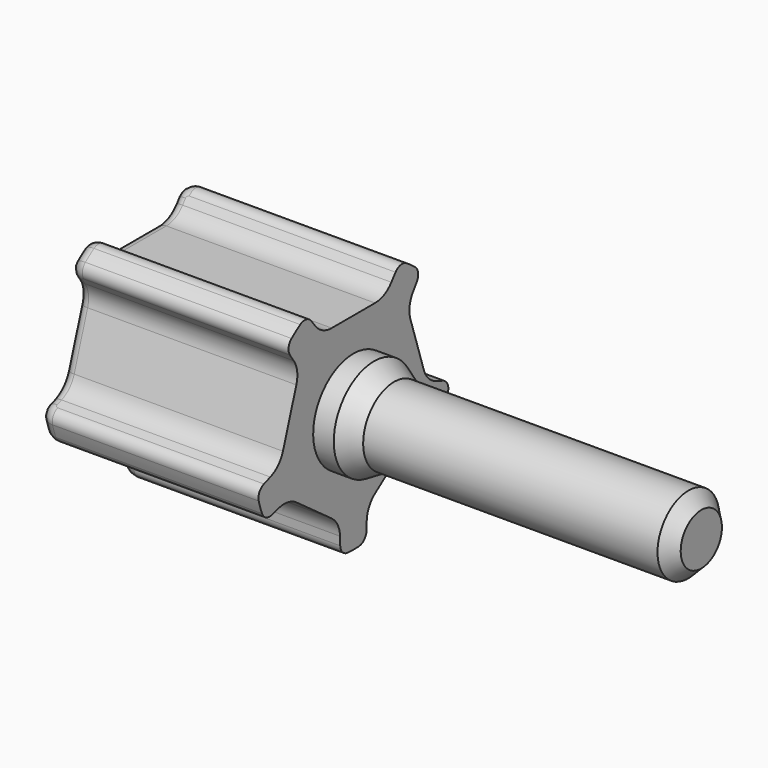
from build123d import *

# Parameters (mm, degrees)
POCKET_DEPTH       = 120.112591
POLARPATTERN_COUNT = 5
FILLET_R           = 0.8
SKETCH002_R        = 4.5
POCKET001_DEPTH    = 14.001
SKETCH003_R        = 4
PAD_DEPTH          = 6
CHAMFER_SIZE       = 1


with BuildPart() as part:
    # Sketch → Revolution (revolve)
    with BuildSketch(Plane.XZ):
        with BuildLine():
            Line((27, 0), (27, 3))
            Line((27, 3), (3.158846, 3))
            Line((3.158846, 3), (1.6, 3.9))
            Line((1.6, 3.9), (0, 3.9))
            Line((0, 3.9), (0, 9.5))
            Line((0, 9.5), (-16, 9.5))
            ThreePointArc((-16, 9.5), (-16.707107, 9.207107), (-17, 8.5))
            Line((-17, 8.5), (-17, 0))
            Line((-17, 0), (27, 0))
        make_face()
    revolve(axis=Axis((0, 0, 0), (1, 0, 0)))

    # Sketch001 → Pocket (cut, through all)
    with BuildSketch(Plane.YZ):
        with BuildLine():
            ThreePointArc((-3.685317, 7.275073), (-2.984702, 6.704192), (-2.104319, 6.5))
            Line((-2.104319, 6.5), (2.104319, 6.5))
            ThreePointArc((2.104319, 6.5), (2.984702, 6.704192), (3.685317, 7.275073))
            Line((3.685317, 7.275073), (29.389263, 40.45085))
            Line((-29.389263, 40.45085), (29.389263, 40.45085))
            Line((-3.685317, 7.275073), (-29.389263, 40.45085))
        make_face()
    pocket = extrude(amount=-POCKET_DEPTH, mode=Mode.SUBTRACT)

    # PolarPattern: Pocket ×5 about axis
    polarpattern_axis = Axis((0, 0, 0), (1, 0, 0))
    for i in range(1, POLARPATTERN_COUNT):
        add(pocket.rotate(polarpattern_axis, i * 360 / POLARPATTERN_COUNT), mode=Mode.SUBTRACT)

    # Fillet
    fillet_edges = [part.edges().sort_by_distance(p)[0] for p in [
        (-17, -2.984702, 6.704192),
        (-17, 0, 6.5),
        (-17, 2.984702, 6.704192),
        (-17, 3.792748, 7.413732),
        (-17, 4.996175, 6.876644),
        (-17, 5.878855, 5.898087),
        (-17, 5.453742, 4.910329),
        (-17, 6.181867, 2.00861),
        (-17, 7.298389, -0.766911),
        (-17, 8.222902, -1.316148),
        (-17, 8.08398, -2.626644),
        (-17, 7.42608, -3.768514),
        (-17, 6.3553, -3.669441),
        (-17, 3.820604, -5.25861),
        (-17, 1.525951, -7.178169),
        (-17, 1.289285, -8.227157),
        (-17, 0, -8.5),
        (-17, -1.289285, -8.227157),
        (-17, -1.525951, -7.178169),
        (-17, -3.820604, -5.25861),
        (-17, -6.3553, -3.669441),
        (-17, -7.42608, -3.768514),
        (-17, -8.08398, -2.626644),
        (-17, -8.222902, -1.316148),
        (-17, -7.298389, -0.766911),
        (-17, -6.181867, 2.00861),
        (-17, -5.453742, 4.910329),
        (-17, -5.878855, 5.898087),
        (-17, -4.996175, 6.876644),
        (-17, -3.792748, 7.413732),
    ]]
    fillet(fillet_edges, radius=FILLET_R)

    # Sketch002 → Pocket001 (cut, through all)
    with BuildSketch(Plane.YZ.offset(-3)):
        Circle(SKETCH002_R)
    extrude(amount=-POCKET001_DEPTH, mode=Mode.SUBTRACT)

    # Sketch003 → Pad (join)
    with BuildSketch(Plane.YZ.offset(-3)):
        Circle(SKETCH003_R)
        Polygon((0, -2.886751), (2.5, -1.443376), (2.5, 1.443376), (0, 2.886751), (-2.5, 1.443376), (-2.5, -1.443376), align=None, mode=Mode.SUBTRACT)
    extrude(amount=-PAD_DEPTH)

    # Chamfer
    chamfer_edges = [part.edges().sort_by_distance(p)[0] for p in [
        (27, 0, -3),
    ]]
    chamfer(chamfer_edges, length=CHAMFER_SIZE)


solid = part.part
